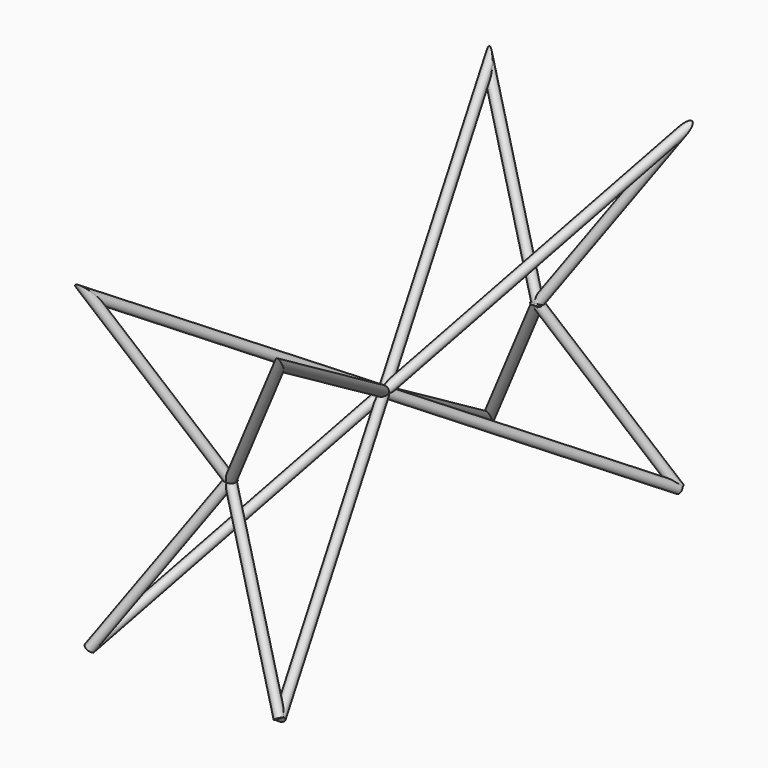
from build123d import *

# Parameters (mm, degrees)
F19_R = 1
F22_R = 1


with BuildPart() as f20:
    # F20: sweep along a path in F17, F11, F13
    with BuildLine(Plane(origin=(0, 0, 0), x_dir=(0.3563767573, -0.9343423392, 0), z_dir=(-0.9343423392, -0.3563767573, 0))) as f20_path:
        Line((56.1203826827, 32.6981630323), (-56.1203826827, -32.6981630323))
    with BuildLine(Plane(origin=(0, -35.5270401876, -13.1128483886), x_dir=(-1, 0, 0), z_dir=(0, 0.9381378928, 0.3462618865))) as f20_path_2:
        Line((-20, 48.8318527274), (0, 13.9775277054))
    with BuildLine(Plane(origin=(0, -35.5270401876, 13.1128483886), x_dir=(1, 0, 0), z_dir=(0, -0.9381378928, 0.3462618865))) as f20_path_3:
        Line((0, -13.9775277054), (20, -48.8318527274))
    # F19 (on line) → F20 (sweep)
    with BuildSketch(Plane(origin=(-20, 52.4356496332, -32.6981630323), x_dir=(-0.9514112279, -0.2612841756, 0.1629332836), z_dir=(-0.3079231647, 0.8073075588, -0.503426092))):
        Circle(F19_R)
    sweep(path=f20_path.line + f20_path_2.line + f20_path_3.line, transition=Transition.RIGHT)

    # F23: sweep along a path in F9, F7, F15
    with BuildLine(Plane(origin=(0, 35.5270401876, 13.1128483886), x_dir=(1, 0, 0), z_dir=(0, -0.9381378928, -0.3462618865))) as f23_path:
        Line((0, -13.9775277054), (-20, -48.8318527274))
    with BuildLine(Plane(origin=(13.9925451171, 6.9326781831, 5.9997963879), x_dir=(-0.3808799456, 0.9100870581, -0.1633156872), z_dir=(0.8364372396, 0.4144171167, 0.3586519169))) as f23_path_2:
        Line((49.9984820611, 37.9337331064), (36.7374162914, 0))
    with BuildLine(Plane(origin=(0, 0, 0), x_dir=(0.3563767573, -0.9343423392, 0), z_dir=(-0.9343423392, -0.3563767573, 0))) as f23_path_3:
        Line((56.1203826827, -32.6981630323), (-56.1203826827, 32.6981630323))
    # F22 (on line) → F23 (sweep)
    with BuildSketch(Plane(origin=(-26.033812996, 15.7097456206, -42.5628930848), x_dir=(0.8673494006, 0.172334446, -0.4669109722), z_dir=(-0.497699726, 0.3003300397, -0.8136933391))):
        with Locations((6.9566117088, -37.8697422404)):
            Circle(F22_R)
    sweep(path=f23_path.line + f23_path_2.line + f23_path_3.line, transition=Transition.RIGHT)


with BuildPart() as f24_1:
    # F24: instance of F20
    add(f20.part.mirror(Plane.YZ))


solid = Compound([f20.part, f24_1.part])
